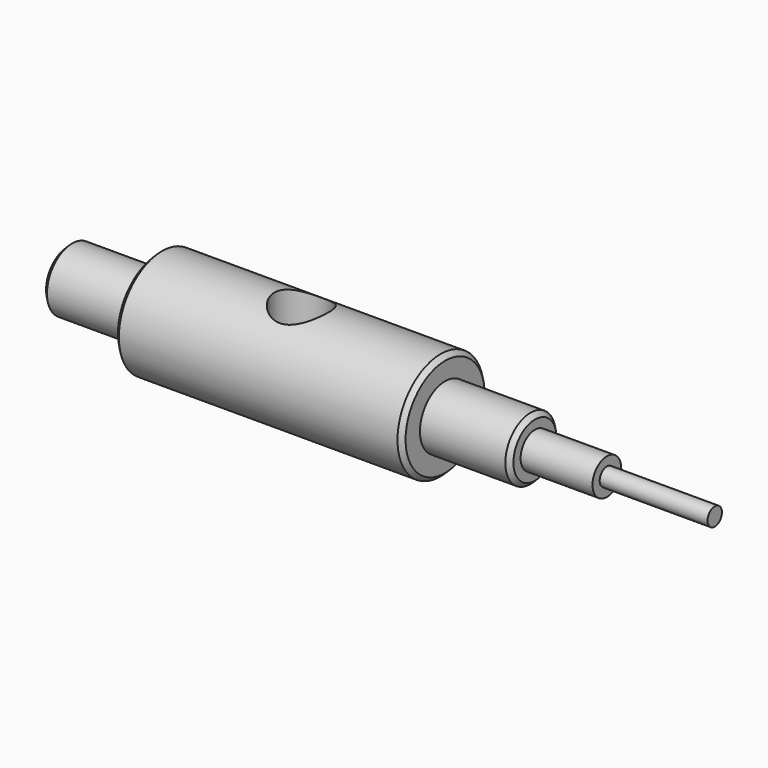
from build123d import *

# Parameters (mm, degrees)
F2_R          = 3
F3_DEPTH      = 6.001
F3_DEPTH_BACK = 6.001
F4_SIZE       = 0.5


with BuildPart() as f1:
    # F0 (on Front) → F1 (revolve)
    with BuildSketch(Plane.XZ):
        Polygon((0, 3.5), (0, 0), (72, 0), (72, 1), (60, 1), (60, 2), (52, 2), (52, 3.5), (42, 3.5), (42, 6), (10, 6), (10, 3.5), align=None)
    revolve(axis=Axis((37.3597331345, 0, 0), (1, 0, 0)))

    # F2 (on Top) → F3 (cut, two sides)
    with BuildSketch(Plane.XY) as f3_sk:
        with Locations((26, 0)):
            Circle(F2_R)
    extrude(amount=-F3_DEPTH, mode=Mode.SUBTRACT)
    extrude(f3_sk.sketch, amount=F3_DEPTH_BACK, mode=Mode.SUBTRACT)

    # F4
    f4_edges = [f1.edges().sort_by_distance(p)[0] for p in [
        (52, 0, -3.5),
        (0, 0, -3.5),
        (10, 0, -6),
        (42, 0, -6),
    ]]
    chamfer(f4_edges, length=F4_SIZE)


solid = f1.part
